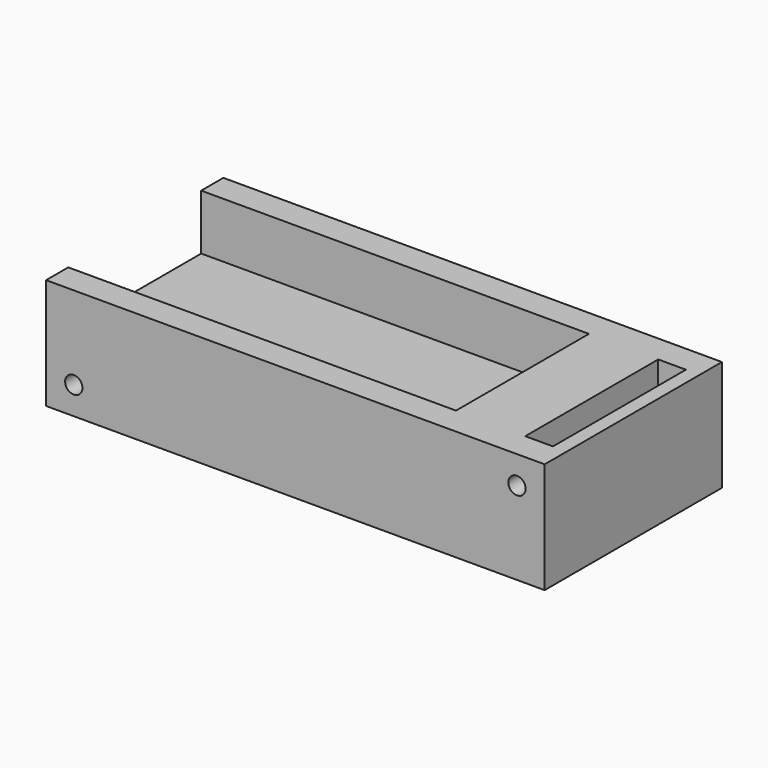
from build123d import *

# Parameters (mm, degrees)
F0_W     = 12.7
F0_H     = 76.2
F1_DEPTH = 25.4
F0_W_2   = 177.8
F2_DEPTH = 25.4
F3_R     = 3.96875
F4_DEPTH = 254
F5_R     = 3.96875
F6_DEPTH = 152.4
F7_W     = 76.2
F7_H     = 15.875
F8_DEPTH = 25.4


with BuildPart() as f1:
    # F0 (on Top) → F1 (new body, symmetric)
    with BuildSketch(Plane.XY):
        Polygon((154.0158234471, 53.3519236594), (-74.5841765529, 53.3519236594), (-74.5841765529, 40.6519236594), (103.2158234471, 40.6519236594), (103.2158234471, -35.5480763406), (-74.5841765529, -35.5480763406), (-74.5841765529, -48.2480763406), (154.0158234471, -48.2480763406), align=None)
        with Locations((141.3158234471, 2.5519236594)):
            Rectangle(F0_W, F0_H, mode=Mode.SUBTRACT)
    extrude(amount=F1_DEPTH, both=True)

    # F0 (on Top) → F2 (join)
    with BuildSketch(Plane.XY):
        with Locations((14.3158234471, 2.5519236594)):
            Rectangle(F0_W_2, F0_H)
    extrude(amount=-F2_DEPTH)

    # F3 (on face) → F4 (cut)
    with BuildSketch(Plane.XZ.offset(48.2480763406)):
        with Locations((141.3158234471, 12.7)):
            Circle(F3_R)
    extrude(amount=-F4_DEPTH, mode=Mode.SUBTRACT)

    # F5 (on face) → F6 (cut)
    with BuildSketch(Plane.XZ.offset(48.2480763406)):
        with Locations((-61.8841765529, -12.7)):
            Circle(F5_R)
    extrude(amount=-F6_DEPTH, mode=Mode.SUBTRACT)

    # F7 (on face) → F8 (cut)
    with BuildSketch(Plane(origin=(-74.5841765529, 0, 0), x_dir=(0, -1, 0), z_dir=(-1, 0, 0))):
        with Locations((-2.5519236594, -17.4625)):
            Rectangle(F7_W, F7_H)
    extrude(amount=-F8_DEPTH, mode=Mode.SUBTRACT)


solid = f1.part
